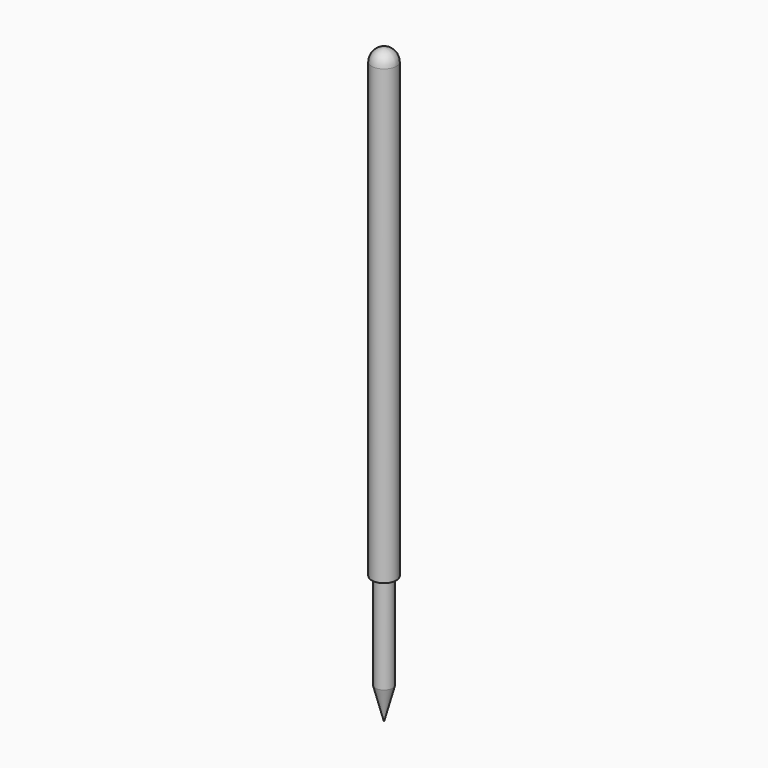
from build123d import *

# Parameters (mm, degrees)
CYLINDER_R        = 0.34
CYLINDER_DEPTH    = 12.5
CYLINDER002_R     = 0.24
CYLINDER002_DEPTH = 2.65


with BuildPart() as cone:
    # Cone → Cone (revolve)
    with BuildSketch(Plane(origin=(0, 0, -3.55), x_dir=(1, 0, 0), z_dir=(0, -1, 0))):
        Polygon((0, 0), (0.24, 0.9), (0, 0.9), align=None)
    revolve(axis=Axis((0, 0, -3.55), (0, 0, 1)))


with BuildPart() as body:
    # Cylinder → Cylinder (new body)
    with BuildSketch(Plane.XY):
        Circle(CYLINDER_R)
    extrude(amount=CYLINDER_DEPTH)


with BuildPart() as pin:
    # Cylinder002 → Cylinder002 (new body)
    with BuildSketch(Plane.XY.offset(-2.65)):
        Circle(CYLINDER002_R)
    extrude(amount=CYLINDER002_DEPTH)


with BuildPart() as pogo_pin:
    # Sphere → Sphere (revolve)
    with BuildSketch(Plane(origin=(0, 0, 12.5), x_dir=(1, 0, 0), z_dir=(0, -1, 0))):
        with BuildLine():
            ThreePointArc((0.34, 0), (0.240416, 0.240416), (0, 0.34))
            Line((0, 0.34), (0, 0))
            Line((0, 0), (0.34, 0))
        make_face()
    revolve(axis=Axis((0, 0, 12.5), (0, 0, 1)))

    # Fusion001: union Cone, Body, Pin
    add(cone.part)
    add(body.part)
    add(pin.part)


solid = pogo_pin.part
